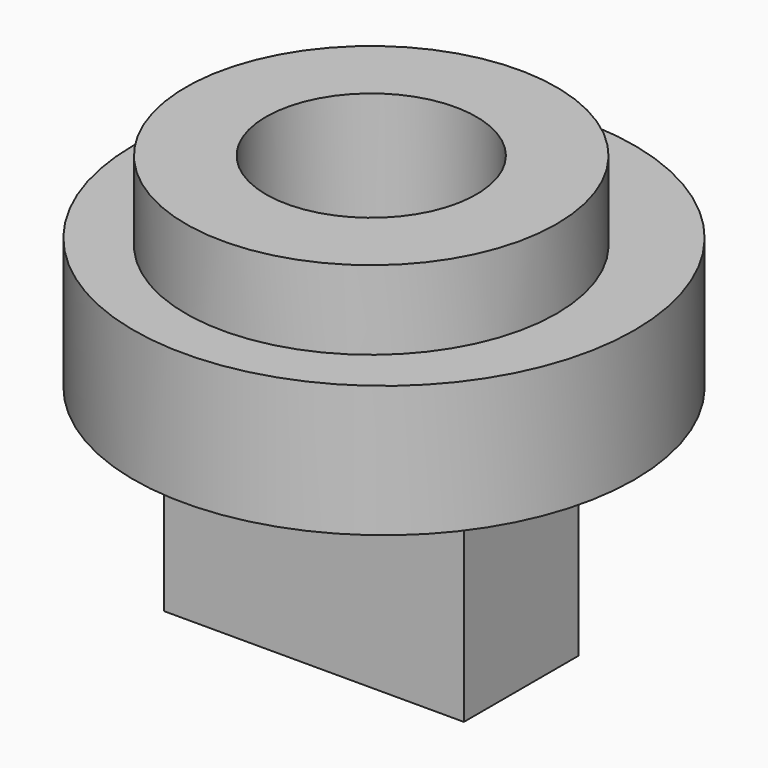
from build123d import *

# Parameters (mm, degrees)
F0_DEPTH   = 4
F1_W       = 11.4
F1_H       = 5.4380514655
F2_DEPTH   = 4
F5_R       = 9.5224089712
F5_W       = 11.4
F5_H       = 5.4380514655
F6_DEPTH   = 5
F7_R       = 7.0490368144
F3_DEPTH   = 3
F9_D       = 8
F9_DEPTH   = 6
F9_TIP     = 2.4034424761
F9_2_D     = 8
F9_2_DEPTH = 6
F9_2_TIP   = 2.4034424761


with BuildPart() as f0:
    # F4 (on Top) → F0 (new body)
    with BuildSketch(Plane.XY):
        Polygon((-5.7, 0), (-5.7, -5.4380514655), (5.7, -5.4380514655), (5.7, 0), (3.1380514655, 2.5619485345), (-3.1380514655, 2.5619485345), align=None)
    extrude(amount=F0_DEPTH)

    # F1 (on face) → F2 (join)
    with BuildSketch(Plane.XY.offset(4)):
        with Locations((0, -2.7190257328)):
            Rectangle(F1_W, F1_H)
    extrude(amount=F2_DEPTH)

    # F9
    with Locations(Plane.XY.offset(16)):
        with Locations((0, -2.7178041637)):
            Hole(F9_D / 2, depth=F9_DEPTH)
            with Locations((0, 0, -(F9_DEPTH + F9_TIP / 2))):  # 118° drill point
                Cone(0, F9_D / 2, F9_TIP, mode=Mode.SUBTRACT)


with BuildPart() as f6:
    # F5 (on face) → F6 (new body)
    with BuildSketch(Plane.XY.offset(8)):
        with Locations((0, -2.1104682237)):
            Circle(F5_R)
        with Locations((0, -2.7190257328)):
            Rectangle(F5_W, F5_H, mode=Mode.SUBTRACT)
        with Locations((0, -2.7190257328)):
            Rectangle(F5_W, F5_H)
    extrude(amount=F6_DEPTH)

    # F7 (on face) → F3 (join)
    with BuildSketch(Plane.XY.offset(13)):
        with Locations((0, -2.7178041637)):
            Circle(F7_R)
    extrude(amount=F3_DEPTH)

    # F9#2
    with Locations(Plane.XY.offset(16)):
        with Locations((0, -2.7178041637)):
            Hole(F9_2_D / 2, depth=F9_2_DEPTH)
            with Locations((0, 0, -(F9_2_DEPTH + F9_2_TIP / 2))):  # 118° drill point
                Cone(0, F9_2_D / 2, F9_2_TIP, mode=Mode.SUBTRACT)


solid = Compound([f0.part, f6.part])
